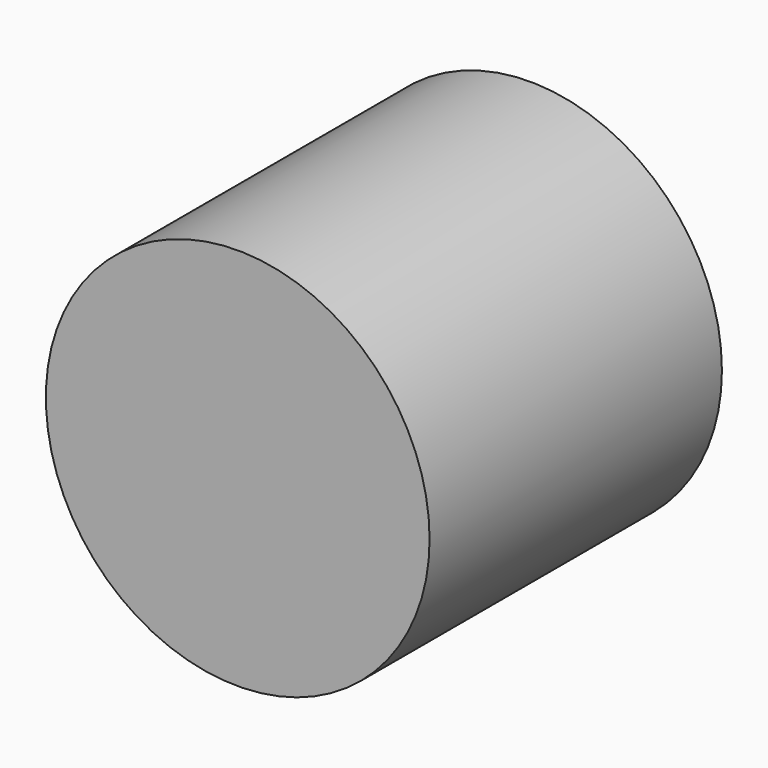
from build123d import *

# Parameters (mm, degrees)
F1_R     = 66.687465
F2_DEPTH = 127


with BuildPart() as f2:
    # F1 (on face) → F2 (new body)
    with BuildSketch(Plane.XZ):
        Circle(F1_R)
    extrude(amount=F2_DEPTH)


solid = f2.part
